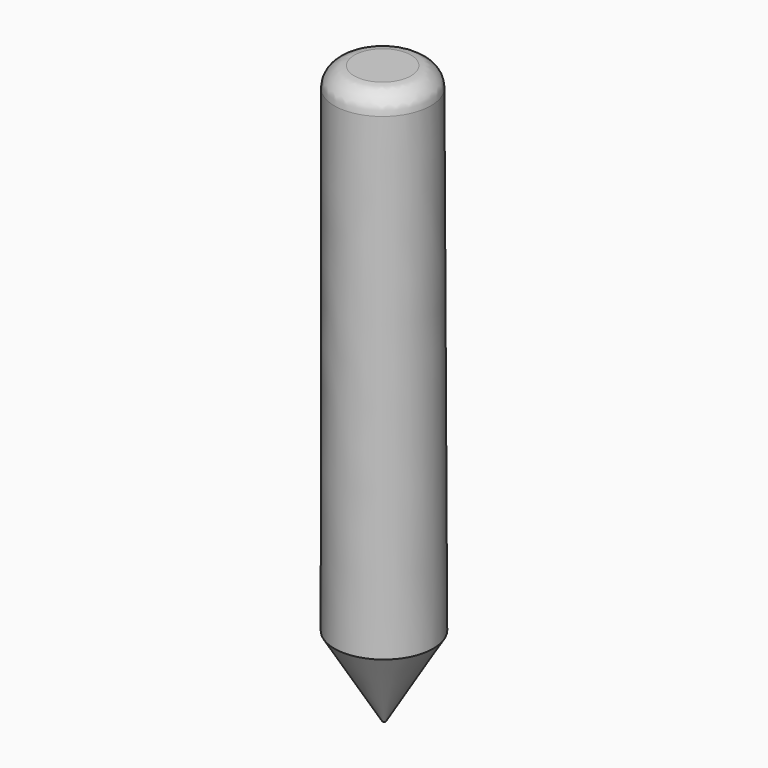
from build123d import *

# Parameters (mm, degrees)
F2_R = 5.08


with BuildPart() as f1:
    # F0 (on Front) → F1 (revolve)
    with BuildSketch(Plane.XZ):
        Polygon((-47.8098975513, 72.1107760788), (-60.1223401397, 72.1107760788), (-60.1223401397, 46.7107760788), (-47.7453010011, 46.7107760788), align=None)
        Polygon((-47.7453010011, 46.7107760788), (-60.1223401397, 46.7107760788), (-60.1223401397, -54.8892239212), (-47.4869148007, -54.8892239212), align=None)
        Polygon((-47.4869148007, -54.8892239212), (-60.1223401397, -54.8892239212), (-47.8456753104, -75.2092213272), (-47.4368474546, -74.57619772), align=None)
    revolve(axis=Axis((-47.6340077251, 0, 2.9491633177), (-0.002543163, 0, 0.9999967662)))

    # F2
    f2_edges = [f1.edges().sort_by_distance(p)[0] for p in [
        (-35.497614, 0, 72.173401),
    ]]
    fillet(f2_edges, radius=F2_R)


solid = f1.part
